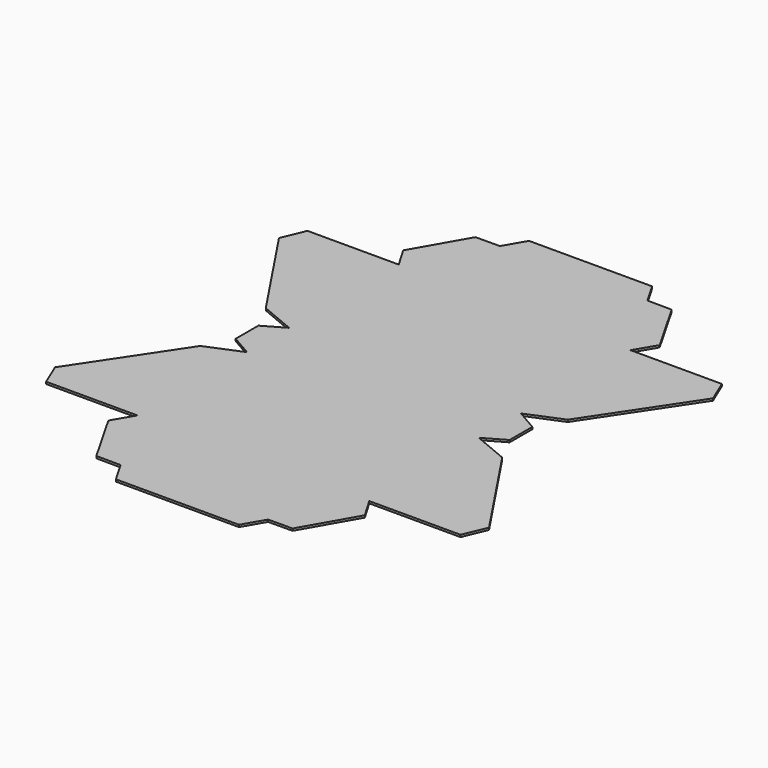
from build123d import *

# Parameters (mm, degrees)
F1_DEPTH = 1


with BuildPart() as f1:
    # F0 (on Top) → F1 (new body)
    with BuildSketch(Plane.XY):
        Polygon((-98.333333, -77.5), (-55, -77.5), (-60.847352, -87.422779), (-46.561637, -112.422779), (-35, -112.5), (-29.196775, -122.5), (29.196775, -122.5), (35, -112.5), (46.561637, -112.422779), (60.847352, -87.422779), (55, -77.5), (98.333333, -77.5), (102.955835, -66.405996), (71.641006, -19.433752), (55, -12.5), (65, -6.726497), (65, 6.726497), (55, 12.5), (71.641006, 19.433752), (102.955835, 66.405996), (98.333333, 77.5), (55, 77.5), (60.847352, 87.422779), (46.561637, 112.422779), (35, 112.5), (29.196775, 122.5), (-29.196775, 122.5), (-35, 112.5), (-46.561637, 112.422779), (-60.847352, 87.422779), (-55, 77.5), (-98.333333, 77.5), (-102.955835, 66.405996), (-71.641006, 19.433752), (-55, 12.5), (-65, 6.726497), (-65, -6.726497), (-55, -12.5), (-71.641006, -19.433752), (-102.955835, -66.405996), align=None)
    extrude(amount=F1_DEPTH)


solid = f1.part
